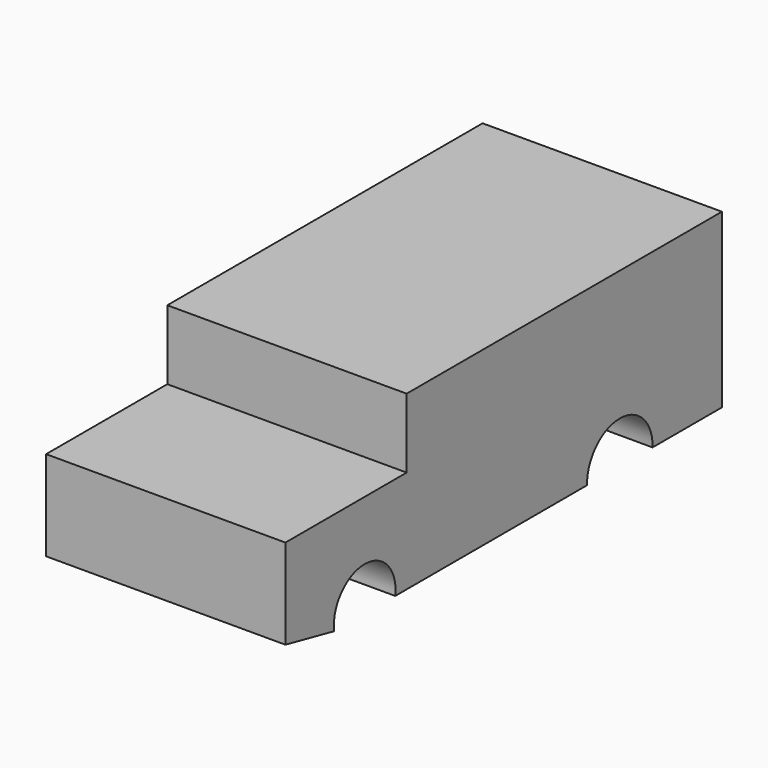
from build123d import *

# Parameters (mm, degrees)
F1_DEPTH = 38.1


with BuildPart() as f1:
    # F0 (on Right) → F1 (new body)
    with BuildSketch(Plane.YZ):
        with BuildLine():
            Line((-46.897188, 31.528283), (-46.897188, 17.210789))
            Line((-46.897188, 17.210789), (-37.204824, 15.162492))
            ThreePointArc((-37.204824, 15.162492), (-31.125288, 22.109421), (-25.045751, 15.162492))
            Line((-25.045751, 15.162492), (13.12588, 15.162492))
            ThreePointArc((13.12588, 15.162492), (19.641679, 21.882599), (26.157478, 15.162492))
            Line((26.157478, 15.162492), (39.957467, 15.162492))
            Line((39.957467, 15.162492), (39.957467, 42.589217))
            Line((39.957467, 42.589217), (-22.774836, 42.589217))
            Line((-22.774836, 42.589217), (-22.774836, 31.528283))
            Line((-22.774836, 31.528283), (-46.897188, 31.528283))
        make_face()
    extrude(amount=F1_DEPTH)


solid = f1.part
